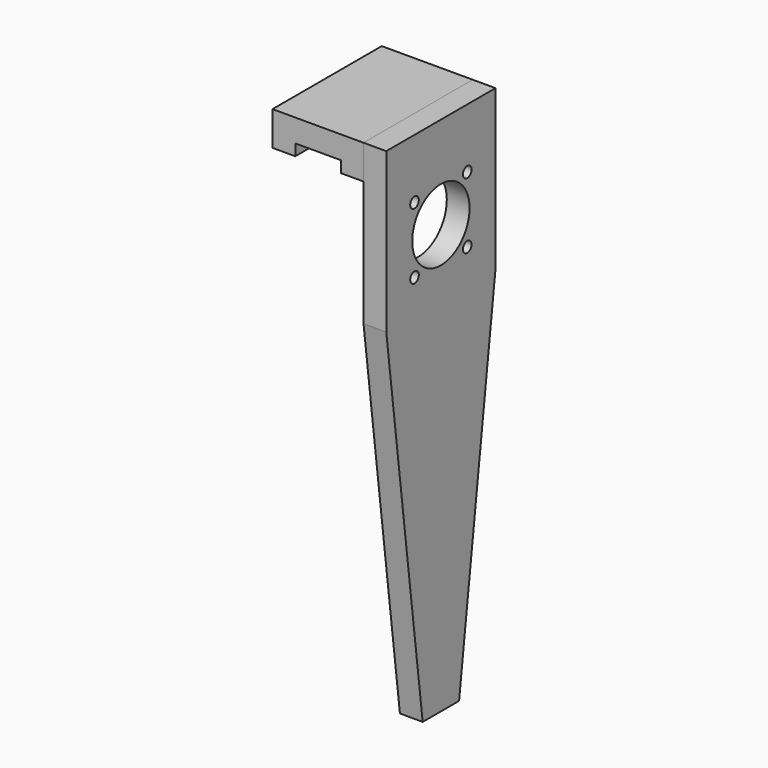
from build123d import *

# Parameters (mm, degrees)
F1_DEPTH = 38.1
F2_R     = 1.5
F2_R_2   = 10
F3_DEPTH = 6.35


with BuildPart() as f1:
    # F0 (on Front) → F1 (new body)
    with BuildSketch(Plane.XZ):
        Polygon((0, 0), (-25.4, 0), (-25.4, -9.525), (-19.05, -9.525), (-19.05, -6.35), (-6.35, -6.35), (-6.35, -9.525), (0, -9.525), align=None)
    extrude(amount=F1_DEPTH)


with BuildPart() as f3:
    # F2 (on Right) → F3 (new body)
    with BuildSketch(Plane.YZ):
        Polygon((-25.4, -145.4), (-12.7, -145.4), (0, -44.45), (0, 0), (-38.1, 0), (-38.1, -44.45), align=None)
        with Locations((-28.251859, -35.008259)):
            Circle(F2_R, mode=Mode.SUBTRACT)
        with Locations((-28.251859, -16.604541)):
            Circle(F2_R, mode=Mode.SUBTRACT)
        with Locations((-19.05, -25.8064)):
            Circle(F2_R_2, mode=Mode.SUBTRACT)
        with Locations((-9.848141, -35.008259)):
            Circle(F2_R, mode=Mode.SUBTRACT)
        with Locations((-9.848141, -16.604541)):
            Circle(F2_R, mode=Mode.SUBTRACT)
    extrude(amount=F3_DEPTH)


solid = Compound([f1.part, f3.part])
